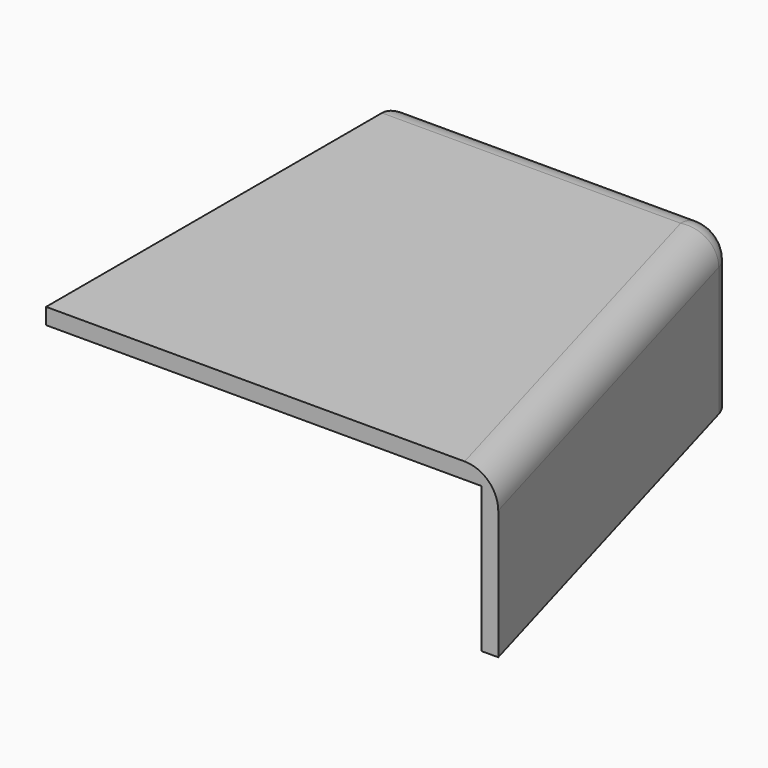
from build123d import *

# Parameters (mm, degrees)
F1_DEPTH = 25
F2_T     = -2.5
F3_R     = 5


with BuildPart() as f1:
    # F0 (on Top) → F1 (new body)
    with BuildSketch(Plane.XY):
        Polygon((12.2111159576, 29.6730460864), (-37.7888840424, 29.6730460864), (-37.7888840424, -40.3269539136), (32.2111159576, -40.3269539136), align=None)
    extrude(amount=F1_DEPTH)

    # F2
    f2_openings = [f1.faces().sort_by_distance(p)[0] for p in [
        (-37.788884, -5.326954, 12.5),
        (-7.511106, -7.271398, 0),
        (-2.788884, -40.326954, 12.5),
    ]]
    offset(amount=F2_T, openings=f2_openings)

    # F3
    f3_edges = [f1.edges().sort_by_distance(p)[0] for p in [
        (12.211116, 29.673046, 12.5),
        (10.325362, 27.173046, 11.25),
        (-12.788884, 29.673046, 25),
        (22.211116, -5.326954, 25),
        (-37.788884, 29.673046, 12.5),
    ]]
    fillet(f3_edges, radius=F3_R)


solid = f1.part
